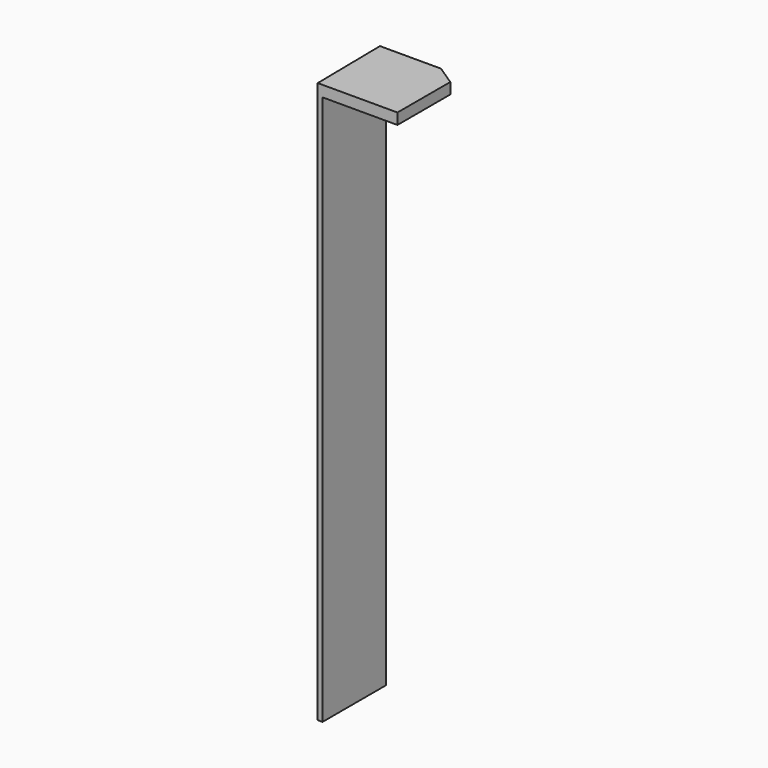
from build123d import *

# Parameters (mm, degrees)
F1_DEPTH = 25.4
F2_W     = 11.100077
F2_H     = 182.86971
F3_DEPTH = 1270


with BuildPart() as f1:
    # F0 (on Top) → F1 (new body)
    with BuildSketch(Plane.XY):
        Polygon((-93.831137, 90.892762), (-91.253363, -91.976948), (92.870981, -91.976948), (92.870981, 29.878557), (77.333361, 29.878557), (77.333361, -74.912153), (-77.011138, -74.912153), (-77.333361, 75.729227), (29.386684, 75.729227), (29.386684, 90.892762), align=None)
        Polygon((77.333361, 29.878557), (92.870981, 29.878557), (92.870981, 60.565692), (47.302246, 90.892762), (29.386684, 90.892762), (29.386684, 75.729227), (-77.333361, 75.729227), (-77.011138, -74.912153), (77.333361, -74.912153), align=None)
        Polygon((77.333361, 29.878557), (92.870981, 29.878557), (92.870981, 60.565692), (47.302246, 90.892762), (29.386684, 90.892762), (29.386684, 75.729227), (-77.333361, 75.729227), (-77.011138, -74.912153), (77.333361, -74.912153), align=None)
    extrude(amount=F1_DEPTH)

    # F2 (on face) → F3 (join)
    with BuildSketch(Plane(origin=(0, 0, 0), x_dir=(1, 0, 0), z_dir=(0, 0, -1))):
        with Locations((-85.703324, 0.542093)):
            Rectangle(F2_W, F2_H)
    extrude(amount=F3_DEPTH)


solid = f1.part
